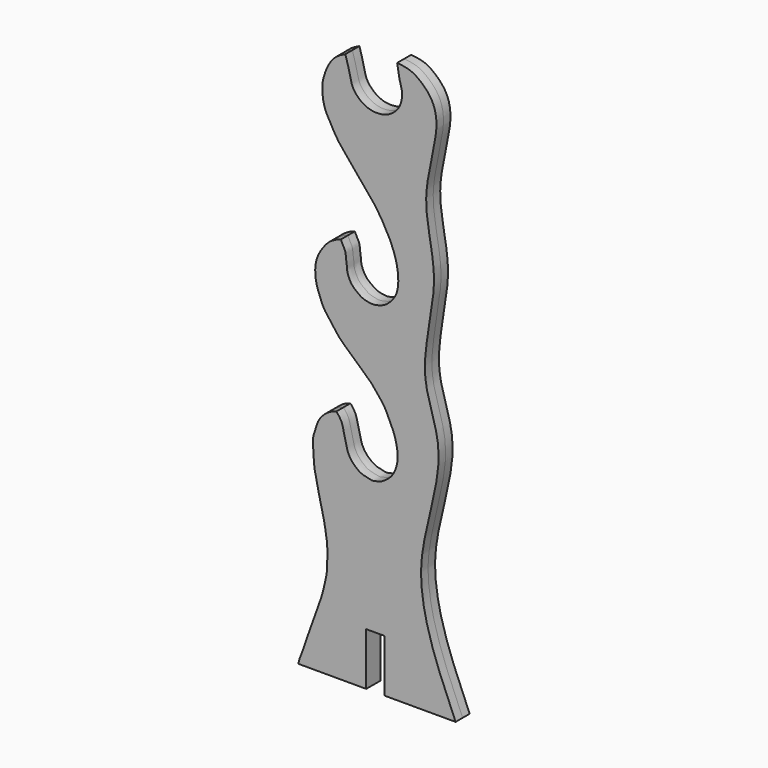
from build123d import *

# Parameters (mm, degrees)
F1_DEPTH = 5


with BuildPart() as f1:
    # F0 (on Front) → F1 (new body, symmetric)
    with BuildSketch(Plane.XZ):
        with BuildLine():
            Line((-43.9459607005, 0), (-5.25, 0))
            Line((-5.25, 0), (-5.25, 30))
            Line((-5.25, 30), (5.25, 30))
            Line((5.25, 30), (5.25, 0))
            Line((5.25, 0), (45.7076728344, 0))
            add(Edge.make_bspline(
                [(45.7076728344, 0), (42.6078926568, 7.2110613186), (36.3908168459, 21.6739304012), (28.6098185997, 43.97652253), (24.7827408904, 68.1367224342), (28.1373561035, 88.2457125422), (33.1238760423, 107.863336919), (36.5237208072, 125.7937790118), (35.6206237751, 142.3837305687), (27.3485864364, 163.8229371939), (28.5753666345, 182.0200242994), (31.3083878367, 198.7936718966), (34.1054264764, 216.3474458605), (32.4126596563, 231.2472621342), (28.7316521101, 249.8050402605), (28.8836609411, 262.5946600428), (31.2956236453, 274.5710895471), (34.1067523864, 287.9096596627), (35.3725987603, 298.4483473796), (32.7643598359, 308.2624801366), (26.2034733871, 314.9658511053), (20.1100445536, 319.1273326424), (14.9957693187, 319.7063994153), (12.4027105048, 320)],
                knots=[0, 0, 0, 0, 0.0584081151, 0.1171462679, 0.176227798, 0.2304785071, 0.2846622984, 0.3356265464, 0.3845289673, 0.4416969259, 0.492914351, 0.5426175143, 0.5928337495, 0.639877692, 0.6919844066, 0.7349748976, 0.7768610758, 0.8213739657, 0.860585645, 0.8980931716, 0.9345083707, 0.966794191, 1, 1, 1, 1], degree=3))
            add(Edge.make_bspline(
                [(12.4027105048, 320), (12.7866497898, 317.1895061305), (13.5060218826, 311.9235931701), (15.7809576773, 306.0020583745), (14.5490714281, 299.551736763), (11.8008945292, 295.2597987866), (6.8702858779, 291.8338259358), (1.8511667698, 290.9294231111), (-2.5764956131, 291.2045063315), (-7.0409689059, 292.9608992858), (-10.5161742331, 295.9542039017), (-13.4172899181, 299.5758404311), (-14.8162527572, 306.2303182601), (-16.0688094388, 311.4861380968), (-16.8128610936, 313.7557747633), (-17.1379223466, 314.7473335266)],
                knots=[0, 0, 0, 0, 0.0954063398, 0.1787591451, 0.2615516737, 0.3363746219, 0.4165985141, 0.4912377337, 0.5608629227, 0.6330188675, 0.7036081906, 0.7745274853, 0.8613409681, 0.9394226485, 1, 1, 1, 1], degree=3))
            add(Edge.make_bspline(
                [(-17.1379223466, 314.7473335266), (-18.992425998, 313.8689403976), (-22.8099676572, 312.0607464044), (-26.9989275913, 306.3905063729), (-29.3432082511, 300.2227953923), (-30.5689336248, 294.9924750998), (-30.0053363464, 287.1565258547), (-28.0751068672, 281.5368222921), (-24.6368296114, 275.5432010074), (-20.8628329225, 268.7933921942), (-14.6694225067, 262.0272000558), (-9.3605248702, 255.490336453), (-3.4543615432, 248.3987231795), (1.3156787779, 242.3590287738), (4.5579496377, 237.0312561803), (8.7478494284, 229.2745715216), (10.9759585586, 223.4780973681), (12.9326005568, 216.5193704615), (13.2903903435, 207.7320949591), (11.4099313761, 202.0347686248), (7.6452989073, 197.7000091859), (4.2442008565, 195.3635999321), (-0.8094842759, 194.2006561022), (-2.9742756036, 194.3362162278), (-7.0192957035, 195.1422980901), (-9.2178872458, 196.5321820449), (-13.0261996204, 199.3658915614), (-14.785099084, 202.3521185272), (-16.3122850468, 206.0531976998), (-16.2690690707, 209.7611897347), (-16.9266017425, 212.41040735), (-16.8974288645, 215.5076776803), (-18.2932059604, 217.8967851412), (-19.2467441229, 219.8611500846), (-19.7485536337, 220.8949178457)],
                knots=[0, 0, 0, 0, 0.033150264, 0.0682406387, 0.1022747625, 0.1333372387, 0.1702395689, 0.2029638776, 0.2376311621, 0.274928155, 0.3152053887, 0.3542870311, 0.3949392474, 0.4316883174, 0.4652756922, 0.5046069312, 0.5380451403, 0.5738657825, 0.6132958657, 0.6458702926, 0.6770566058, 0.7046142842, 0.7341309603, 0.7544246573, 0.7806278043, 0.8028283755, 0.8313207462, 0.8564381121, 0.8828951219, 0.9084170808, 0.9305364688, 0.9535172683, 0.9755379724, 1, 1, 1, 1], degree=3))
            add(Edge.make_bspline(
                [(-19.7485536337, 220.8949178457), (-20.6010937453, 220.6090129109), (-22.5525396186, 219.9545826997), (-26.7826649261, 217.5361339675), (-29.4533151976, 214.1147216769), (-31.4666396723, 211.3004209944), (-33.2493553296, 207.6338172283), (-34.1048821065, 204.4900877991), (-34.5306301136, 200.1470482457), (-33.8673299068, 194.5501596376), (-32.5982878432, 190.6925241606), (-31.0881410235, 186.7094456063), (-29.2302483988, 182.5342595597), (-26.2408016386, 178.8823517995), (-22.6294873795, 173.9524240965), (-19.8657790305, 170.3537191738), (-15.5720452832, 166.6611656566), (-10.6445874381, 161.9834545869), (-6.2154149075, 158.2008486118), (-1.5693914915, 153.9024678749), (1.5669657626, 149.5218451794), (5.0079578154, 145.7911694669), (8.7909137501, 137.6577579888), (11.3625860855, 131.8714229953), (12.8810857502, 124.1572092738), (12.6039070505, 118.9764306089), (10.5127105321, 112.5981065882), (6.9015040392, 109.0962408506), (2.9200537969, 106.5289666738), (1.0600578093, 106.3514250527), (-1.3619518464, 105.4911200094), (-3.8847841726, 106.1076834515), (-7.7071257554, 106.8859284662), (-10.2669596354, 108.5528765219), (-13.256636788, 111.1600169063), (-15.321405092, 114.3461410584), (-16.3850363147, 117.432178144), (-17.1260367768, 121.7190364141), (-18.3208791608, 125.5280015209), (-18.9774409362, 129.2495861968), (-20.9126192101, 132.0876441718), (-21.8259370656, 133.2604206313), (-22.2293511033, 133.7784379721)],
                knots=[0, 0, 0, 0, 0.020205448, 0.0462498335, 0.0709345462, 0.0930877764, 0.1167317954, 0.1380599226, 0.1627719385, 0.1909206782, 0.2149060956, 0.2392143946, 0.2643466699, 0.2903027826, 0.3194958657, 0.3447975836, 0.372847594, 0.403820119, 0.432695591, 0.462426401, 0.4896110421, 0.5163984977, 0.5514778326, 0.5821944359, 0.6147297528, 0.6420760994, 0.6720544704, 0.699062805, 0.7241753482, 0.7402953907, 0.7585375928, 0.7777333325, 0.800916763, 0.8217235833, 0.8452064907, 0.8681577933, 0.8895349668, 0.9141636388, 0.9380578704, 0.9610855758, 0.9828114332, 1, 1, 1, 1], degree=3))
            add(Edge.make_bspline(
                [(-22.2293511033, 133.7784379721), (-23.3823734491, 133.3881633589), (-25.7516075414, 132.5862258058), (-29.1387958964, 130.2695046226), (-32.6768550573, 126.21229737), (-34.1133414421, 121.2968105477), (-35.7468572217, 116.9827081571), (-35.6661328661, 111.525191316), (-35.2756897259, 106.226560047), (-34.8773060832, 101.2711822887), (-33.7779193539, 96.5757440308), (-33.0166561583, 92.3820044544), (-31.5897910078, 86.4833693593), (-30.7261175834, 82.2150129178), (-29.4134978858, 77.5076450433), (-28.6935284532, 73.2496151911), (-27.7129827614, 68.0356928178), (-27.1834270497, 61.1393417434), (-27.4332462724, 56.5882246416), (-27.652137831, 50.4274121958), (-28.7776011521, 45.9171020948), (-29.9939191295, 40.2096364446), (-31.9017712312, 34.4701690874), (-33.1363213221, 31.4483283217), (-35.5152801551, 23.9348428784), (-38.3210578498, 17.118630127), (-40.0045071171, 11.5464962961), (-41.6927542701, 6.8104343545), (-43.5498302087, 2.2996681818), (-43.8316690808, 0.6635005556), (-43.9459607005, 0)],
                knots=[0, 0, 0, 0, 0.0304116503, 0.0624899586, 0.0990821374, 0.1349372523, 0.1689308721, 0.2057953566, 0.2426885223, 0.2782259199, 0.3127448456, 0.3459527317, 0.3848486342, 0.4185743536, 0.453278487, 0.4862270661, 0.5231244894, 0.564698757, 0.5993106358, 0.6381410904, 0.6726600053, 0.7114155628, 0.7499810236, 0.7789816433, 0.8230777545, 0.867241508, 0.9052628085, 0.9413561785, 0.9762186909, 1, 1, 1, 1], degree=3))
        make_face()
    extrude(amount=F1_DEPTH, both=True)


solid = f1.part
